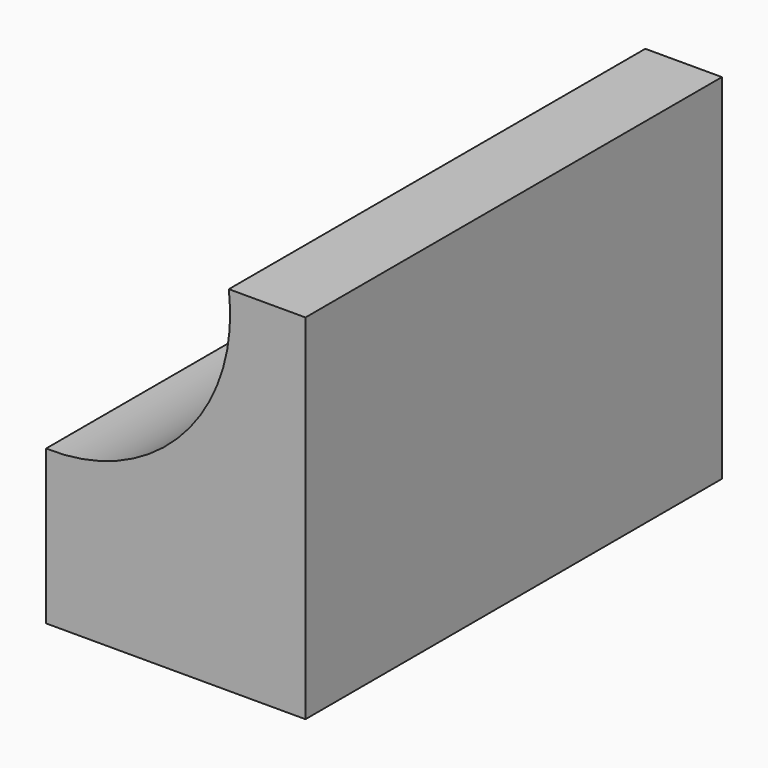
from build123d import *

# Parameters (mm, degrees)
F1_DEPTH = 42.1


with BuildPart() as f1:
    # F0 (on Front) → F1 (new body, symmetric)
    with BuildSketch(Plane.XZ):
        with BuildLine():
            Line((-41.957613, 0), (0, 0))
            Line((0, 0), (0, 57.211973))
            Line((0, 57.211973), (-12.395078, 57.211973))
            ThreePointArc((-12.395078, 57.211973), (-19.741115, 34.255709), (-41.957613, 24.907904))
            Line((-41.957613, 24.907904), (-41.957613, 0))
        make_face()
    extrude(amount=F1_DEPTH, both=True)


solid = f1.part
